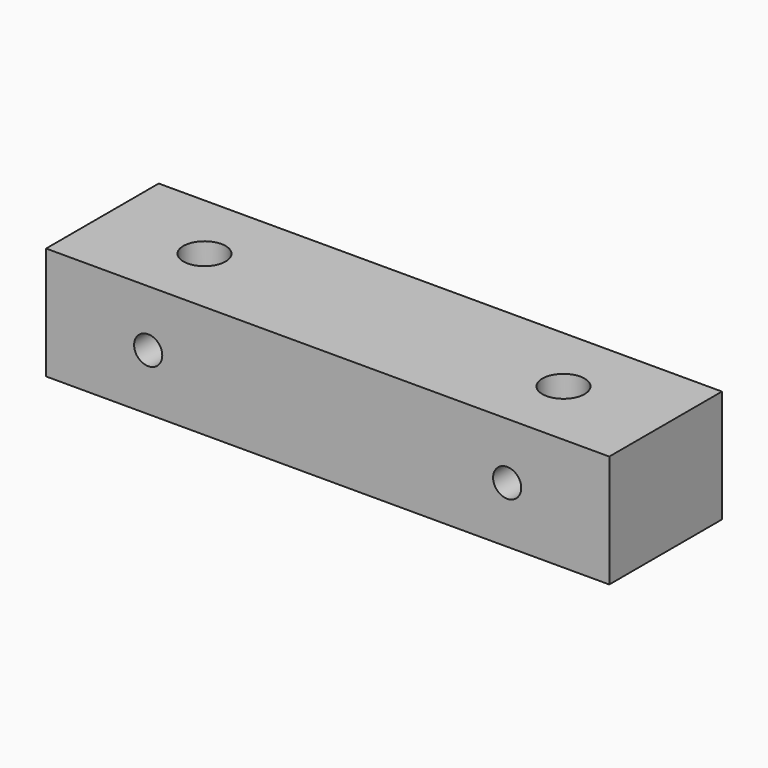
from build123d import *

# Parameters (mm, degrees)
F0_W     = 254
F0_H     = 50.8
F1_DEPTH = 31.75
F2_R     = 9.525
F3_DEPTH = 44.45
F4_R     = 6.35
F5_DEPTH = 63.501


with BuildPart() as f1:
    # F0 (on Front) → F1 (new body, symmetric)
    with BuildSketch(Plane.XZ):
        Rectangle(F0_W, F0_H)
    extrude(amount=F1_DEPTH, both=True)

    # F2 (on face) → F3 (cut)
    with BuildSketch(Plane.XY.offset(25.4)):
        with Locations((-80.9498, 0)):
            Circle(F2_R)
        with Locations((80.9498, 0)):
            Circle(F2_R)
    extrude(amount=-F3_DEPTH, mode=Mode.SUBTRACT)

    # F4 (on face) → F5 (cut, through all)
    with BuildSketch(Plane.XZ.offset(31.75)):
        with Locations((-80.9498, 0)):
            Circle(F4_R)
        with Locations((80.9498, 0)):
            Circle(F4_R)
    extrude(amount=-F5_DEPTH, mode=Mode.SUBTRACT)


solid = f1.part
